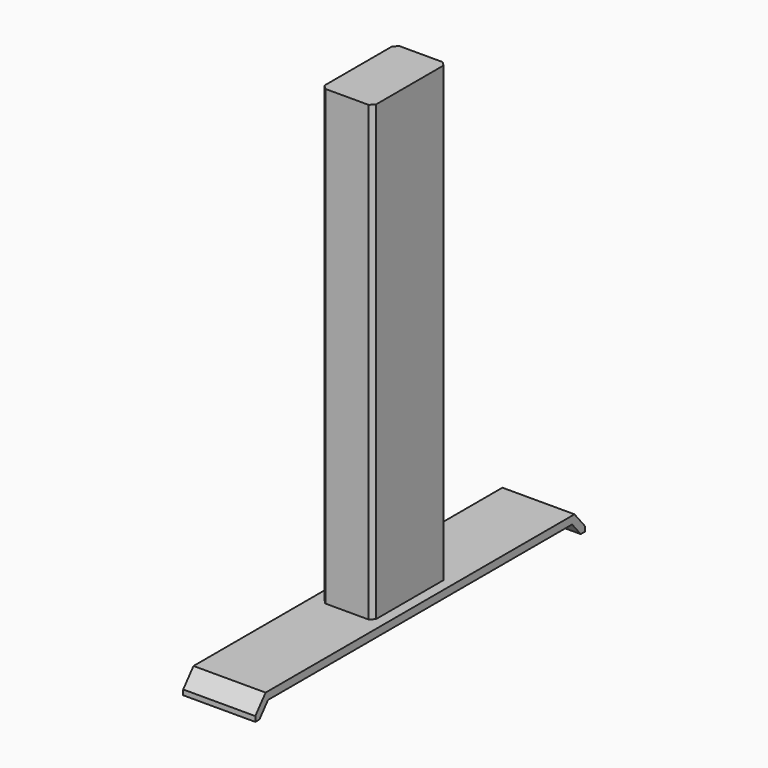
from build123d import *

# Parameters (mm, degrees)
F0_W      = 63.5
F0_H      = 114.3
F1_DEPTH  = 558.8
F2_SIZE   = 5.08
F4_DEPTH  = 25.4
F6_DEPTH  = 76.2
F8_DEPTH  = 12.7
F10_DEPTH = 12.7


with BuildPart() as f1:
    # F0 (on Top) → F1 (new body)
    with BuildSketch(Plane.XY):
        Rectangle(F0_W, F0_H)
    extrude(amount=F1_DEPTH)

    # F2
    f2_edges = [f1.edges().sort_by_distance(p)[0] for p in [
        (31.75, 57.15, 279.4),
        (-31.75, 57.15, 279.4),
        (-31.75, -57.15, 279.4),
        (31.75, -57.15, 279.4),
    ]]
    chamfer(f2_edges, length=F2_SIZE)

    # F3 (on face) → F4 (join)
    with BuildSketch(Plane(origin=(0, 0, 0), x_dir=(1, 0, 0), z_dir=(0, 0, -1))):
        Polygon((31.75, 52.07), (31.75, 254), (-31.75, 254), (-31.75, 52.07), (-26.67, 57.15), (26.67, 57.15), align=None)
        Polygon((31.75, -52.07), (31.75, 52.07), (26.67, 57.15), (-26.67, 57.15), (-31.75, 52.07), (-31.75, -52.07), (-26.67, -57.15), (26.67, -57.15), align=None)
        Polygon((31.75, -254), (31.75, -52.07), (26.67, -57.15), (-26.67, -57.15), (-31.75, -52.07), (-31.75, -254), align=None)
    extrude(amount=F4_DEPTH)

    # F5 (on face) → F6 (cut)
    with BuildSketch(Plane(origin=(-31.75, 0, 0), x_dir=(0, -1, 0), z_dir=(-1, 0, 0))):
        Polygon((238.125, 0), (254, -19.05), (254, 0), align=None)
        Polygon((-247.65, -25.4), (247.65, -25.4), (234.420833, -9.525), (-234.420833, -9.525), align=None)
        Polygon((-254, 0), (-254, -19.05), (-238.125, 0), align=None)
    extrude(amount=-F6_DEPTH, mode=Mode.SUBTRACT)

    # F7 (on face) → F8 (join)
    with BuildSketch(Plane.YZ.offset(31.75)):
        Polygon((238.125, 0), (52.07, 0), (-52.07, 0), (-238.125, 0), (-254, -19.05), (-254, -25.4), (-247.65, -25.4), (-234.420833, -9.525), (234.420833, -9.525), (247.65, -25.4), (254, -25.4), (254, -19.05), align=None)
    extrude(amount=F8_DEPTH)

    # F9 (on face) → F10 (join)
    with BuildSketch(Plane(origin=(-31.75, 0, 0), x_dir=(0, -1, 0), z_dir=(-1, 0, 0))):
        Polygon((238.125, 0), (52.07, 0), (-52.07, 0), (-238.125, 0), (-254, -19.05), (-254, -25.4), (-247.65, -25.4), (-234.420833, -9.525), (234.420833, -9.525), (247.65, -25.4), (254, -25.4), (254, -19.05), align=None)
    extrude(amount=F10_DEPTH)


solid = f1.part
